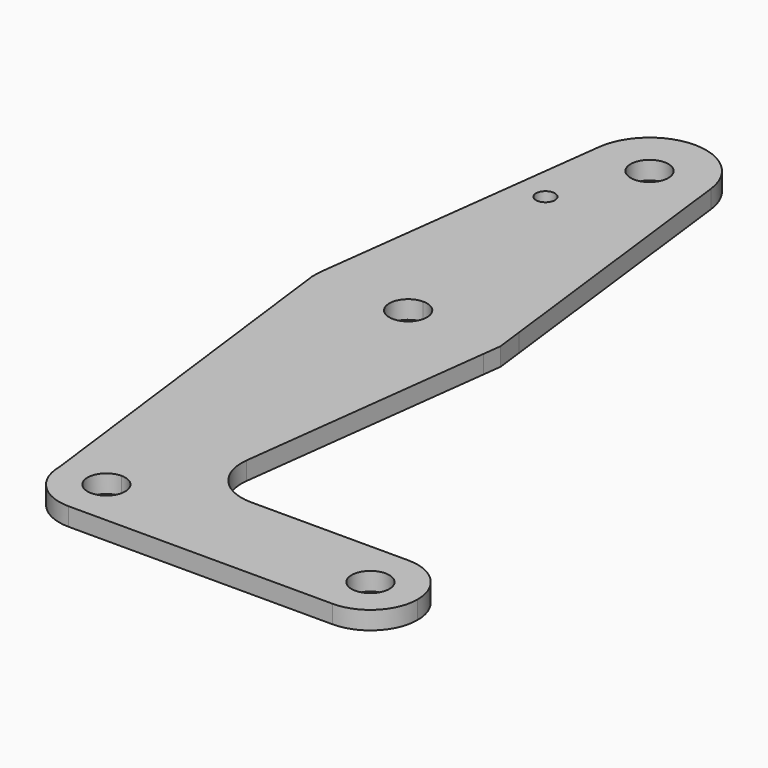
from build123d import *

# Parameters (mm, degrees)
F0_R     = 1.5875
F1_DEPTH = 3.048


with BuildPart() as f1:
    # F0 (on Top) → F1 (new body)
    with BuildSketch(Plane.XY):
        with BuildLine():
            Line((0, 3.175), (0, 7.9375))
            ThreePointArc((0, 7.9375), (-5.6126600757, 5.6126600757), (-7.9375, 0))
            ThreePointArc((-7.9375, 0), (-5.6126600757, -5.6126600757), (0, -7.9375))
            ThreePointArc((0, -7.9375), (5.6126600757, -5.6126600757), (7.9375, 0))
            Line((7.9375, 0), (3.175, 0))
            ThreePointArc((3.175, 0), (-2.2450640303, -2.2450640303), (0, 3.175))
        make_face()
        with BuildLine():
            ThreePointArc((7.9375, 0), (5.6126600757, 5.6126600757), (0, 7.9375))
            Line((0, 7.9375), (0, 3.175))
            ThreePointArc((0, 3.175), (2.2450640303, 2.2450640303), (3.175, 0))
            Line((3.175, 0), (7.9375, 0))
        make_face()
        with BuildLine():
            ThreePointArc((15.481530702, 59.9874749649), (9.905914649, 51.094820438), (0, 47.625))
            Line((0, 47.625), (0, 7.9375))
            ThreePointArc((0, 7.9375), (5.6126600757, 5.6126600757), (7.9375, 0))
            Line((7.9375, 0), (36.5125, 0))
            ThreePointArc((36.5125, 0), (38.8373399243, 5.6126600757), (44.45, 7.9375))
            Line((44.45, 7.9375), (17.9925669528, 7.9375))
            ThreePointArc((17.9925669528, 7.9375), (12.033162764, 10.6254588657), (10.1035020594, 16.8717402166))
            Line((10.1035020594, 16.8717402166), (15.481530702, 59.9874749649))
        make_face()
        with BuildLine():
            Line((36.5125, 0), (7.9375, 0))
            ThreePointArc((7.9375, 0), (5.6126600757, -5.6126600757), (0, -7.9375))
            Line((0, -7.9375), (44.45, -7.9375))
            ThreePointArc((44.45, -7.9375), (38.8373399243, -5.6126600757), (36.5125, 0))
        make_face()
        with BuildLine():
            Line((0, 7.9375), (0, 47.625))
            ThreePointArc((0, 47.625), (-9.9034378608, 51.0928430518), (-15.4801269752, 59.9812937275))
            Line((-15.4801269752, 59.9812937275), (-7.9375, 0))
            ThreePointArc((-7.9375, 0), (-5.6126600757, 5.6126600757), (0, 7.9375))
        make_face()
        with BuildLine():
            ThreePointArc((44.45, 7.9375), (38.8373399243, 5.6126600757), (36.5125, 0))
            ThreePointArc((36.5125, 0), (38.8373399243, -5.6126600757), (44.45, -7.9375))
            ThreePointArc((44.45, -7.9375), (50.0626600757, -5.6126600757), (52.3875, 0))
            ThreePointArc((52.3875, 0), (50.0626600757, 5.6126600757), (44.45, 7.9375))
        make_face()
        with BuildLine():
            ThreePointArc((47.625, 0), (44.45, -3.175), (41.275, 0))
            ThreePointArc((41.275, 0), (44.45, 3.175), (47.625, 0))
        make_face(mode=Mode.SUBTRACT)
        with BuildLine():
            Line((0, 66.675), (0, 79.375))
            ThreePointArc((0, 79.375), (-10.5003255158, 75.40625), (-15.7504882737, 65.484375))
            ThreePointArc((-15.7504882737, 65.484375), (-15.8556928076, 64.2827072183), (-15.8693506462, 63.0765202863))
            Line((-15.8693506462, 63.0765202863), (-15.4801269752, 59.9812937275))
            ThreePointArc((-15.4801269752, 59.9812937275), (-9.9034378608, 51.0928430518), (0, 47.625))
            Line((0, 47.625), (0, 60.325))
            ThreePointArc((0, 60.325), (-3.175, 63.5), (0, 66.675))
        make_face()
        with BuildLine():
            ThreePointArc((15.3043346, 67.7181711026), (9.6190477373, 76.128917041), (0, 79.375))
            Line((0, 79.375), (0, 66.675))
            ThreePointArc((0, 66.675), (2.2450640303, 65.7450640303), (3.175, 63.5))
            ThreePointArc((3.175, 63.5), (2.2450640303, 61.2549359697), (0, 60.325))
            Line((0, 60.325), (0, 47.625))
            ThreePointArc((0, 47.625), (9.905914649, 51.094820438), (15.481530702, 59.9874749649))
            Line((15.481530702, 59.9874749649), (15.8700076056, 63.1019000163))
            Line((15.8700076056, 63.1019000163), (15.3043346, 67.7181711026))
        make_face()
        with BuildLine():
            Line((0, 79.375), (0, 104.775))
            ThreePointArc((0, 104.775), (-7.14375, 107.9998046905), (-9.4502929642, 115.490625))
            Line((-9.4502929642, 115.490625), (-15.7504882737, 65.484375))
            ThreePointArc((-15.7504882737, 65.484375), (-10.5003255158, 75.40625), (0, 79.375))
        make_face()
        with Locations((-6.1087980866, 100.0252)):
            Circle(F0_R, mode=Mode.SUBTRACT)
        with BuildLine():
            ThreePointArc((9.525, 114.3), (6.7351920908, 107.5648079092), (0, 104.775))
            Line((0, 104.775), (0, 79.375))
            ThreePointArc((0, 79.375), (9.6190477373, 76.128917041), (15.3043346, 67.7181711026))
            Line((15.3043346, 67.7181711026), (9.4542826995, 115.4585178623))
            ThreePointArc((9.4542826995, 115.4585178623), (9.5073042371, 114.8803370947), (9.525, 114.3))
        make_face()
        with BuildLine():
            ThreePointArc((-9.4502929642, 115.490625), (-7.14375, 107.9998046905), (0, 104.775))
            ThreePointArc((0, 104.775), (6.7351920908, 107.5648079092), (9.525, 114.3))
            ThreePointArc((9.525, 114.3), (9.5073042371, 114.8803370947), (9.4542826995, 115.4585178623))
            ThreePointArc((9.4542826995, 115.4585178623), (0.0161770383, 123.8249862626), (-9.4502929642, 115.490625))
        make_face()
        with BuildLine():
            ThreePointArc((3.175, 114.3), (2.2450640303, 112.0549359697), (0, 111.125))
            ThreePointArc((0, 111.125), (-2.2450640303, 116.5450640303), (3.175, 114.3))
        make_face(mode=Mode.SUBTRACT)
    extrude(amount=F1_DEPTH)


solid = f1.part
